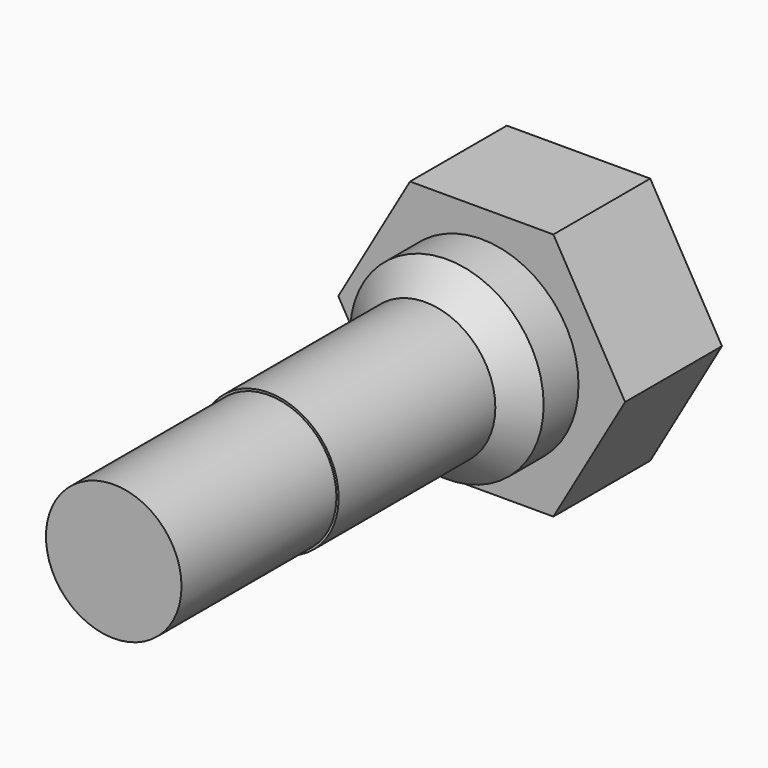
from build123d import *

# Parameters (mm, degrees)
F1_DEPTH  = 31.75
F2_R      = 25.4
F3_DEPTH  = 50.8
F4_SIZE   = 7.62
F5_R      = 18.356615
F3_FACE_R = 17.78
F6_DEPTH  = 101.6


with BuildPart() as f1:
    # F0 (on Front) → F1 (new body)
    with BuildSketch(Plane.XZ):
        Polygon((-18.807561, -32.575652), (18.807561, -32.575652), (37.615123, 0), (18.807561, 32.575652), (-18.807561, 32.575652), (-37.615123, 0), align=None)
    extrude(amount=F1_DEPTH)

    # F2 (on Front) → F3 (join)
    with BuildSketch(Plane.XZ):
        Circle(F2_R)
    extrude(amount=F3_DEPTH)

    # F4
    f4_edges = [f1.edges().sort_by_distance(p)[0] for p in [
        (-25.4, -50.8, 0),
    ]]
    chamfer(f4_edges, length=F4_SIZE)

    # F5 (on Front) + F3_face (on face) → F6 (join)
    with BuildSketch(Plane.XZ):
        Circle(F5_R)
    with BuildSketch(Plane.XZ.offset(50.8)):
        Circle(F3_FACE_R)
    extrude(amount=F6_DEPTH)


solid = f1.part
